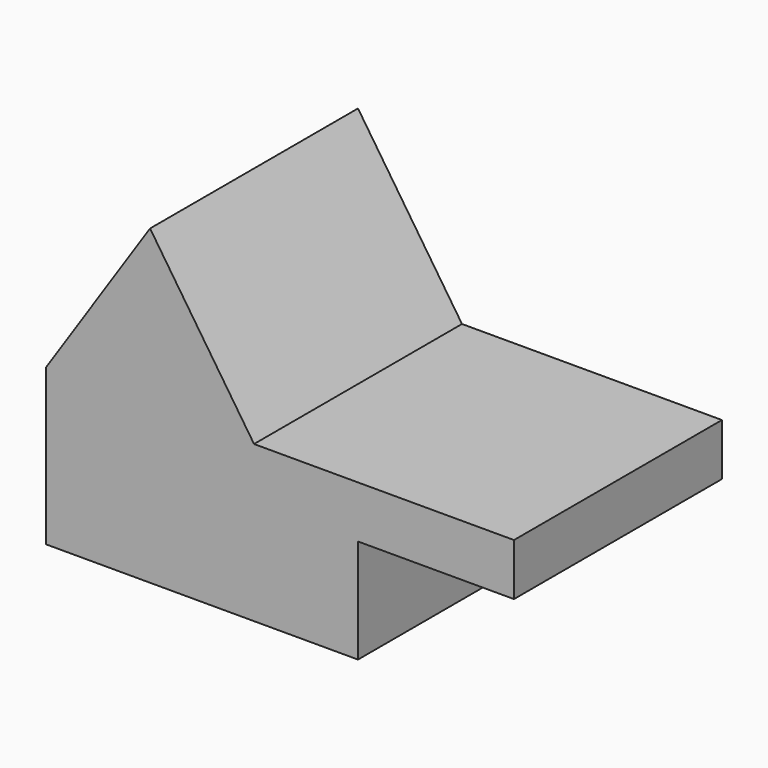
from build123d import *

# Parameters (mm, degrees)
F0_W     = 90
F0_H     = 60
F1_DEPTH = 50
F2_W     = 30
F2_H     = 50
F3_DEPTH = 20
F5_DEPTH = 50.001
F6_DEPTH = 50.001


with BuildPart() as f1:
    # F0 (on Front) → F1 (new body)
    with BuildSketch(Plane.XZ):
        Rectangle(F0_W, F0_H)
    extrude(amount=F1_DEPTH)

    # F2 (on face) → F3 (cut)
    with BuildSketch(Plane(origin=(0, 0, -30), x_dir=(1, 0, 0), z_dir=(0, 0, -1))):
        with Locations((30, 25)):
            Rectangle(F2_W, F2_H)
    extrude(amount=-F3_DEPTH, mode=Mode.SUBTRACT)

    # F4 (on face) → F5 (cut, through all)
    with BuildSketch(Plane(origin=(0, 0, 0), x_dir=(-1, 0, 0), z_dir=(0, 1, 0))):
        Polygon((45, 30), (25, 30), (45, 0), align=None)
    extrude(amount=-F5_DEPTH, mode=Mode.SUBTRACT)

    # F4 (on face) → F6 (cut, through all)
    with BuildSketch(Plane(origin=(0, 0, 0), x_dir=(-1, 0, 0), z_dir=(0, 1, 0))):
        Polygon((-45, 30), (-45, 0), (5, 0), (25, 30), align=None)
    extrude(amount=-F6_DEPTH, mode=Mode.SUBTRACT)


solid = f1.part
